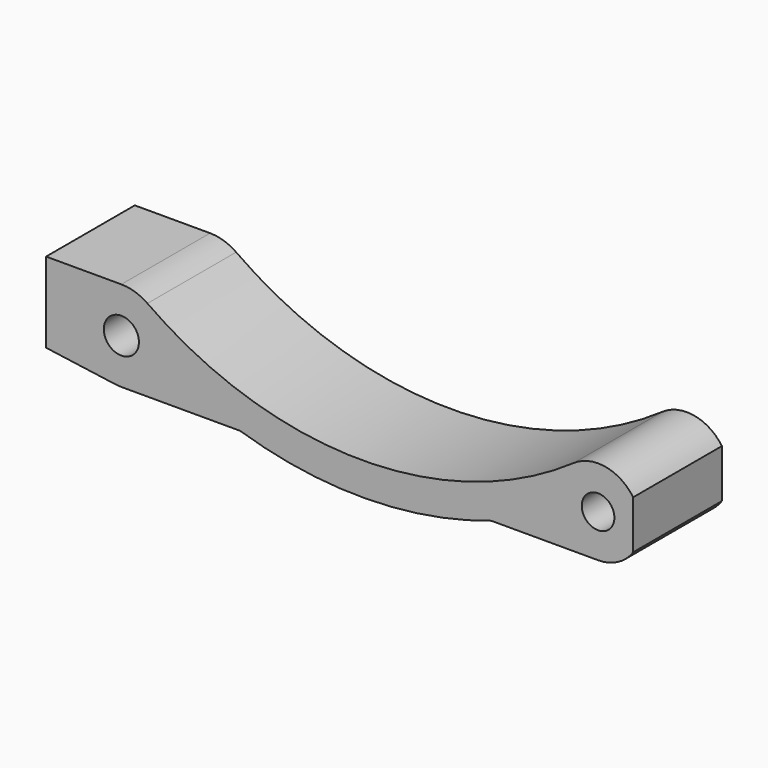
from build123d import *

# Parameters (mm, degrees)
F0_R     = 1.75
F0_R_2   = 1.625
F1_DEPTH = 11.05


with BuildPart() as f1:
    # F0 (on Front) → F1 (new body)
    with BuildSketch(Plane.XZ):
        with BuildLine():
            Line((-7.5, -3.5), (-0.620029, -4.45708))
            ThreePointArc((-0.620029, -4.45708), (-0.310756, -4.489257), (0, -4.5))
            Line((0, -4.5), (11.839124, -4.5))
            ThreePointArc((11.839124, -4.5), (24.369894, -6.368848), (36.860822, -4.25))
            Line((36.860822, -4.25), (47.5, -4.25))
            ThreePointArc((47.5, -4.25), (49.476882, -3.762239), (51, -2.410913))
            Line((51, -2.410913), (51, 2.410913))
            ThreePointArc((51, 2.410913), (48.261956, 4.181139), (45.075467, 3.490578))
            ThreePointArc((45.075467, 3.490578), (23.808304, -3.120513), (2.598914, 3.673642))
            ThreePointArc((2.598914, 3.673642), (1.363564, 4.288437), (0, 4.5))
            Line((0, 4.5), (-7.5, 4.5))
            Line((-7.5, 4.5), (-7.5, -3.5))
        make_face()
        Circle(F0_R, mode=Mode.SUBTRACT)
        with Locations((47.5, 0)):
            Circle(F0_R_2, mode=Mode.SUBTRACT)
    extrude(amount=F1_DEPTH)


solid = f1.part
